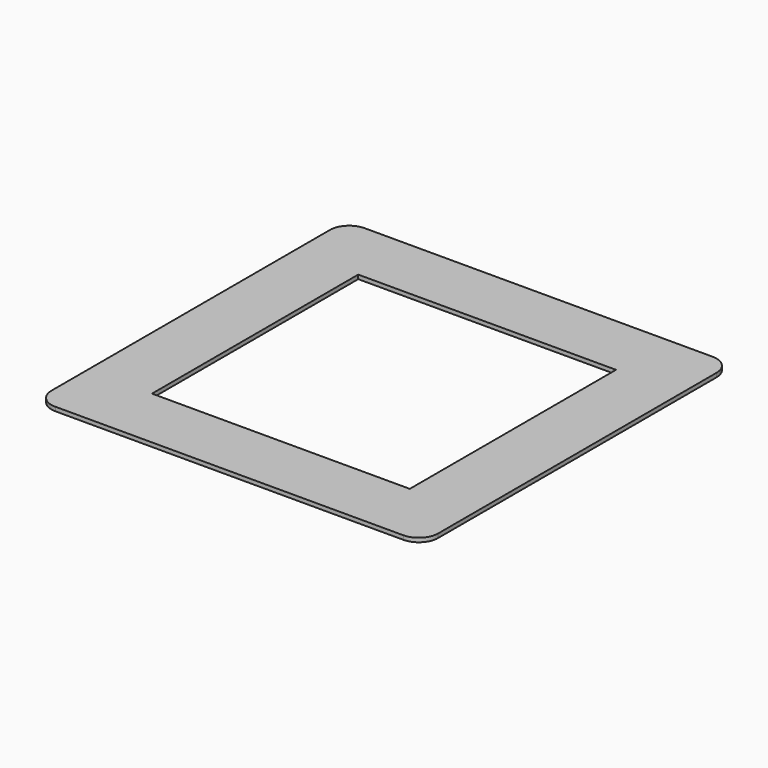
from build123d import *

# Parameters (mm, degrees)
F0_W     = 152.4
F0_H     = 152.4
F1_DEPTH = 1.5875
F2_R     = 7.62
F3_W     = 101.6
F3_H     = 101.6
F4_DEPTH = 1.5885


with BuildPart() as f1:
    # F0 (on Top) → F1 (new body)
    with BuildSketch(Plane.XY):
        Rectangle(F0_W, F0_H)
    extrude(amount=F1_DEPTH)

    # F2
    f2_edges = [f1.edges().sort_by_distance(p)[0] for p in [
        (76.2, 76.2, 0.79375),
        (-76.2, -76.2, 0.79375),
        (76.2, -76.2, 0.79375),
        (-76.2, 76.2, 0.79375),
    ]]
    fillet(f2_edges, radius=F2_R)

    # F3 (on face) → F4 (cut, through all)
    with BuildSketch(Plane.XY.offset(1.5875)):
        Rectangle(F3_W, F3_H)
    extrude(amount=-F4_DEPTH, mode=Mode.SUBTRACT)


solid = f1.part
